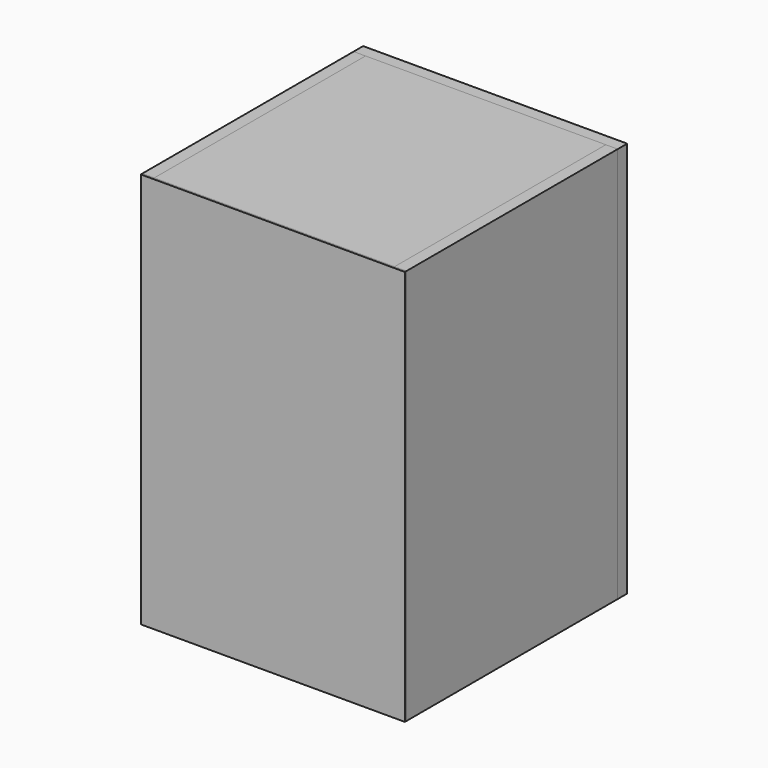
from build123d import *

# Parameters (mm, degrees)
F0_W      = 200
F0_H      = 300
F1_DEPTH  = 1.5
F2_W      = 9
F2_H      = 300
F3_DEPTH  = 200
F5_DEPTH  = 12
F7_DEPTH  = 182
F8_W      = 37.815571
F8_H      = 18.243985
F9_DEPTH  = 5
F10_W     = 200
F10_H     = 9
F11_DEPTH = 182
F12_W     = 200
F12_H     = 9
F13_DEPTH = 182
F14_W     = 200
F14_H     = 300
F15_DEPTH = 9
F16_W     = 200
F16_H     = 300
F17_DEPTH = 9
F18_R     = 36.017029
F19_DEPTH = 9


with BuildPart() as f1:
    # F0 (on Front) → F1 (new body)
    with BuildSketch(Plane.XZ):
        with Locations((100, 150)):
            Rectangle(F0_W, F0_H)
    extrude(amount=F1_DEPTH)


with BuildPart() as f3:
    # F2 (on face) → F3 (new body)
    with BuildSketch(Plane(origin=(0, 0, 0), x_dir=(-1, 0, 0), z_dir=(0, 1, 0))):
        with Locations((-4.5, 150)):
            Rectangle(F2_W, F2_H)
    extrude(amount=F3_DEPTH)


with BuildPart() as f5:
    # F4 (on face) → F5 (new body)
    with BuildSketch(Plane.YZ.offset(9)):
        Polygon((34.40683, 89.666866), (0, 121.243373), (0, 70.704266), align=None)
    extrude(amount=F5_DEPTH)


with BuildPart() as f7:
    # F6 (on face) → F7 (new body)
    with BuildSketch(Plane.YZ.offset(9)):
        Polygon((0, 121.243373), (34.40683, 89.666866), (40.346944, 96.139415), (5.940114, 127.715922), align=None)
    extrude(amount=F7_DEPTH)


with BuildPart() as f9:
    # F8 (on face) → F9 (new body)
    with BuildSketch(Plane(origin=(0, 66.33913, 72.285359), x_dir=(1, 0, 0), z_dir=(0, 0.676154, 0.73676))):
        with Locations((94.162829, -44.401019)):
            Rectangle(F8_W, F8_H)
    extrude(amount=F9_DEPTH)


with BuildPart() as f11:
    # F10 (on face) → F11 (new body)
    with BuildSketch(Plane.YZ.offset(9)):
        with Locations((100, 295.5)):
            Rectangle(F10_W, F10_H)
    extrude(amount=F11_DEPTH)


with BuildPart() as f13:
    # F12 (on face) → F13 (new body)
    with BuildSketch(Plane.YZ.offset(9)):
        with Locations((100, 4.5)):
            Rectangle(F12_W, F12_H)
    extrude(amount=F13_DEPTH)


with BuildPart() as f15:
    # F14 (on face) → F15 (new body)
    with BuildSketch(Plane.YZ.offset(191)):
        with Locations((100, 150)):
            Rectangle(F14_W, F14_H)
    extrude(amount=F15_DEPTH)


with BuildPart() as f17:
    # F16 (on face) → F17 (new body)
    with BuildSketch(Plane(origin=(0, 200, 0), x_dir=(-1, 0, 0), z_dir=(0, 1, 0))):
        with Locations((-100, 150)):
            Rectangle(F16_W, F16_H)
    extrude(amount=F17_DEPTH)

    # F18 (on face) → F19 (cut)
    with BuildSketch(Plane(origin=(0, 209, 0), x_dir=(-1, 0, 0), z_dir=(0, 1, 0))):
        with Locations((-127.775088, 72.844252)):
            Circle(F18_R)
    extrude(amount=-F19_DEPTH, mode=Mode.SUBTRACT)


solid = Compound([f1.part, f3.part, f5.part, f7.part, f9.part, f11.part, f13.part, f15.part, f17.part])
